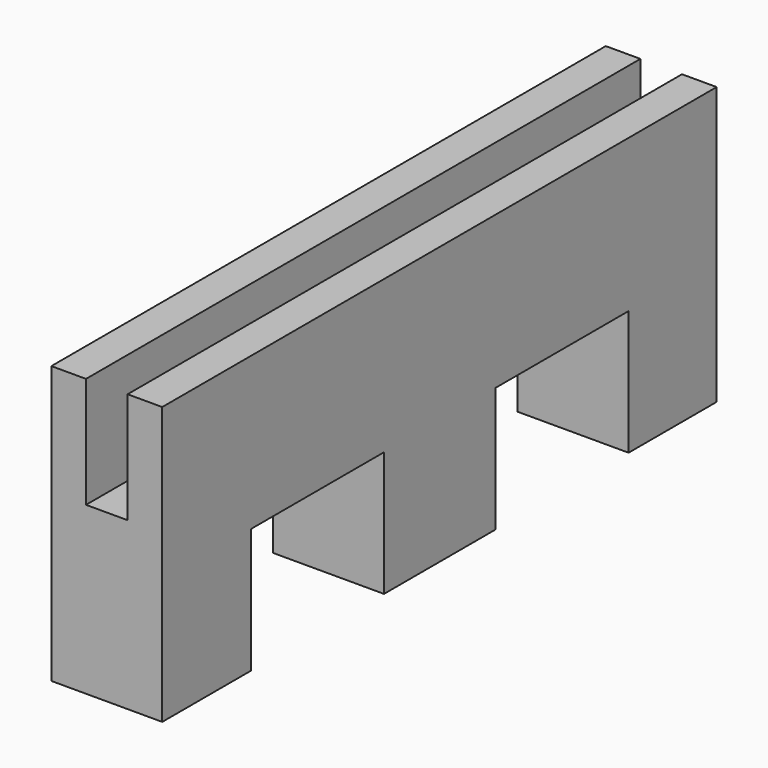
from build123d import *

# Parameters (mm, degrees)
F1_DEPTH = 250
F3_DEPTH = 80.001


with BuildPart() as f1:
    # F0 (on Front) → F1 (new body, symmetric)
    with BuildSketch(Plane.XZ):
        Polygon((-40, 0), (40, 0), (40, 120), (40, 200), (15, 200), (15, 120), (-15, 120), (-15, 200), (-40, 200), (-40, 120), align=None)
    extrude(amount=F1_DEPTH, both=True)

    # F2 (on face) → F3 (cut, through all)
    with BuildSketch(Plane.YZ.offset(40)):
        Polygon((-170, 72.962383), (-170, 0), (-50, 0), (-50, 90), (-170, 90), align=None)
        Polygon((50.587727, 0), (170.587727, 0), (170.587727, 72.962383), (170.587727, 90), (50.587727, 90), align=None)
    extrude(amount=-F3_DEPTH, mode=Mode.SUBTRACT)


solid = f1.part
